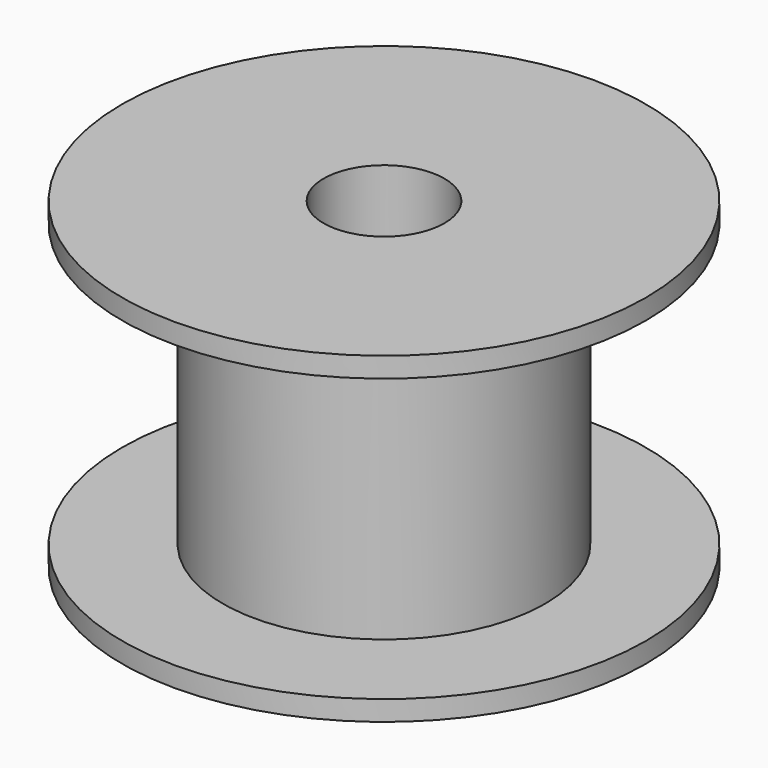
from build123d import *

# Parameters (mm, degrees)
SKETCH067_R     = 4
PAD037_DEPTH    = 7
SKETCH068_R     = 6.5
PAD038_DEPTH    = 0.5
SKETCH070_R     = 6.5
PAD039_DEPTH    = 0.5
SKETCH071_R     = 1.5
POCKET037_DEPTH = 8.001


with BuildPart() as part:
    # Sketch067 → Pad037 (new body)
    with BuildSketch(Plane.XY):
        Circle(SKETCH067_R)
    extrude(amount=PAD037_DEPTH)

    # Sketch068 (on Face3 of Pad037) → Pad038 (join)
    with BuildSketch(Plane.XY.offset(7)):
        Circle(SKETCH068_R)
    extrude(amount=PAD038_DEPTH)

    # Sketch070 (on Face5 of Pad038) → Pad039 (join)
    with BuildSketch(Plane(origin=(0, 0, 0), x_dir=(1, 0, 0), z_dir=(0, 0, -1))):
        Circle(SKETCH070_R)
    extrude(amount=PAD039_DEPTH)

    # Sketch071 (on Face3 of Pad039) → Pocket037 (cut, through all)
    with BuildSketch(Plane(origin=(0, 0, -0.5), x_dir=(1, 0, 0), z_dir=(0, 0, -1))):
        Circle(SKETCH071_R)
    extrude(amount=-POCKET037_DEPTH, mode=Mode.SUBTRACT)


solid = part.part
